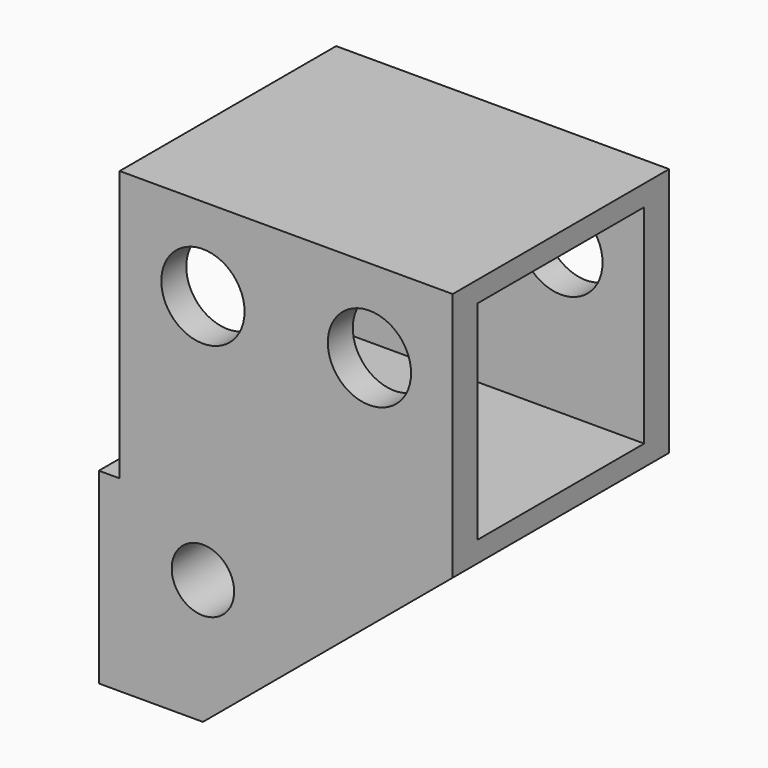
from build123d import *

# Parameters (mm, degrees)
F0_W      = 65
F0_H      = 110
F1_DEPTH  = 40
F2_SIZE2  = 60
F2_SIZE   = 50
F3_R      = 10
F3_R_2    = 7.5
F4_DEPTH  = 65
F5_W      = 50
F5_H      = 50
F6_DEPTH  = 80
F7_DEPTH  = 5
F8_W      = 65
F8_H      = 65
F8_W_2    = 50
F8_H_2    = 50
F9_DEPTH  = 5
F11_DEPTH = 12.5


with BuildPart() as f1:
    # F0 (on Right) → F1 (new body, symmetric)
    with BuildSketch(Plane.YZ):
        Rectangle(F0_W, F0_H)
    extrude(amount=F1_DEPTH, both=True)

    # F2
    f2_edges = [f1.edges().sort_by_distance(p)[0] for p in [
        (40, 0, -55),
    ]]
    f2_side = f1.faces().sort_by_distance((40, 0, 0))[0]
    chamfer(f2_edges, length=F2_SIZE, length2=F2_SIZE2, reference=f2_side)

    # F3 (on face) → F4 (cut, through all)
    with BuildSketch(Plane.XZ.offset(32.5)):
        with Locations((-20, 35)):
            Circle(F3_R)
        with Locations((20, 35)):
            Circle(F3_R)
        with Locations((-20, -25)):
            Circle(F3_R_2)
    extrude(amount=-F4_DEPTH, mode=Mode.SUBTRACT)

    # F5 (on face) → F6 (cut, through all)
    with BuildSketch(Plane.YZ.offset(40)):
        with Locations((0, 25)):
            Rectangle(F5_W, F5_H)
    extrude(amount=-F6_DEPTH, mode=Mode.SUBTRACT)

    # F7 (add): a face of the model
    f7_faces = [f1.faces().sort_by_distance(p)[0] for p in [
        (-40, 0, -13.4408602151),
    ]]
    extrude(f7_faces, amount=F7_DEPTH)

    # F8 (on face) → F9 (cut)
    with BuildSketch(Plane(origin=(-45, 0, 0), x_dir=(0, -1, 0), z_dir=(-1, 0, 0))):
        with Locations((0, 22.5)):
            Rectangle(F8_W, F8_H)
        with Locations((0, 25)):
            Rectangle(F8_W_2, F8_H_2, mode=Mode.SUBTRACT)
    extrude(amount=-F9_DEPTH, mode=Mode.SUBTRACT)

    # F10 (on Front) → F11 (cut, symmetric)
    with BuildSketch(Plane.XZ):
        Polygon((-32.5196777628, -12.5074763466), (-32.5196777628, -24.9999955257), (-32.5196777628, -37.5074763466), (33.280384575, -37.5074763466), (33.280384575, -12.5074763466), align=None)
    extrude(amount=F11_DEPTH, both=True, mode=Mode.SUBTRACT)


solid = f1.part
